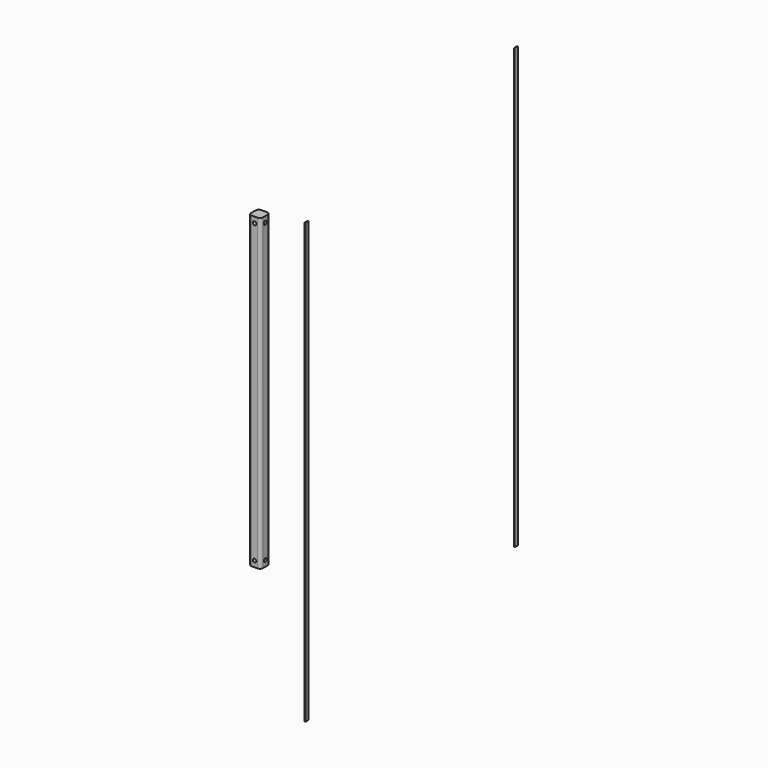
from build123d import *

# Parameters (mm, degrees)
F1_DEPTH  = 660.4
F2_W      = 8.466582
F2_H      = 939.8
F3_DEPTH  = 1.27
F4_W      = 8.46582
F4_H      = 939.8
F5_DEPTH  = 1.27
F7_R      = 3.81
F8_DEPTH  = 25.4
F9_R      = 3.81
F10_DEPTH = 25.4


with BuildPart() as f1:
    # F0 (on Top) → F1 (new body)
    with BuildSketch(Plane.XY):
        with BuildLine():
            ThreePointArc((12.7, 6.35), (10.840128, 10.840128), (6.35, 12.7))
            Line((6.35, 12.7), (-6.35, 12.7))
            ThreePointArc((-6.35, 12.7), (-10.840128, 10.840128), (-12.7, 6.35))
            Line((-12.7, 6.35), (-12.7, -6.35))
            ThreePointArc((-12.7, -6.35), (-10.840128, -10.840128), (-6.35, -12.7))
            Line((-6.35, -12.7), (6.35, -12.7))
            ThreePointArc((6.35, -12.7), (10.840128, -10.840128), (12.7, -6.35))
            Line((12.7, -6.35), (12.7, 6.35))
        make_face()
    extrude(amount=F1_DEPTH)

    # F7 (on face) → F8 (cut)
    with BuildSketch(Plane.XZ.offset(12.7)):
        with Locations((0, 12.7)):
            Circle(F7_R)
        with Locations((0, 647.7)):
            Circle(F7_R)
    extrude(amount=-F8_DEPTH, mode=Mode.SUBTRACT)

    # F9 (on face) → F10 (cut)
    with BuildSketch(Plane(origin=(-12.7, 0, 0), x_dir=(0, -1, 0), z_dir=(-1, 0, 0))):
        with Locations((0, 12.7)):
            Circle(F9_R)
        with Locations((0, 647.7)):
            Circle(F9_R)
    extrude(amount=-F10_DEPTH, mode=Mode.SUBTRACT)


with BuildPart() as f3:
    # F2 (on Right) → F3 (new body)
    with BuildSketch(Plane.YZ):
        with Locations((-392.117033, 469.9)):
            Rectangle(F2_W, F2_H)
    extrude(amount=F3_DEPTH)


with BuildPart() as f5:
    # F4 (on Right) → F5 (new body)
    with BuildSketch(Plane.YZ):
        with Locations((167.538893, 571.176554)):
            Rectangle(F4_W, F4_H)
    extrude(amount=F5_DEPTH)


with BuildPart() as f5_1:
    # F6: moved
    add(f5.part.moved(Location((414.02, 0, 0))))


with BuildPart() as f3_1:
    # F6: moved
    add(f3.part.moved(Location((414.02, 0, 0))))


solid = Compound([f1.part, f5_1.part, f3_1.part])
